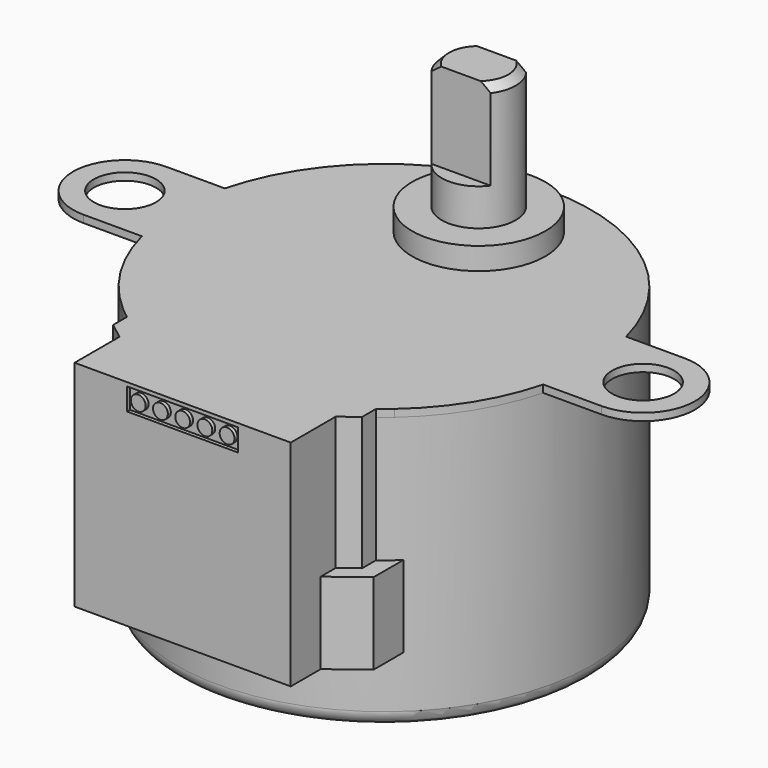
from build123d import *

# Parameters (mm, degrees)
SKETCH002_R     = 14
PAD001_DEPTH    = 18.5
SKETCH003_R     = 0.5
PAD002_DEPTH    = 0.5
SKETCH004_R     = 4.5
SKETCH004_R_2   = 4
PAD003_DEPTH    = 2
POCKET_DEPTH    = 6
FILLET_R        = 1
SKETCH007_R     = 4
SKETCH007_R_2   = 2.5
PAD005_DEPTH    = 2
PAD006_DEPTH    = 14
PAD007_DEPTH    = 0.5
POCKET001_DEPTH = 8.5
SKETCH011_W     = 7.5
SKETCH011_H     = 1.5
SKETCH011_R     = 0.5
POCKET002_DEPTH = 0.25
SKETCH012_R     = 2.5
PAD008_DEPTH    = 10.5
POCKET003_DEPTH = 6
CHAMFER_SIZE    = 0.5
SKETCH001_R     = 4.5
SKETCH001_R_2   = 0.5
SKETCH001_R_3   = 2.1
PAD_DEPTH       = 0.5


with BuildPart() as body001:
    # Sketch002 → Pad001 (new body)
    with BuildSketch(Plane.XY):
        with Locations((0, -8)):
            Circle(SKETCH002_R)
    extrude(amount=-PAD001_DEPTH)

    # Sketch003 → Pad002 (join)
    with BuildSketch(Plane.XY):
        with Locations((0, -12)):
            Circle(SKETCH003_R)
        with Locations((7, -8)):
            Circle(SKETCH003_R)
        with Locations((6, -4)):
            Circle(SKETCH003_R)
        with BuildLine():
            ThreePointArc((-10.8742815855, 0), (-12.1662090508, -2.1490720964), (-13.0384048104, -4.5))
            Line((-13.0384048104, -4.5), (-13.5554417117, -4.5))
            ThreePointArc((-2.5, 5.774977314), (-9.5309019426, 2.254848032), (-13.5554417117, -4.5))
            Line((-2.5, 5.2664991614), (-2.5, 5.774977314))
            ThreePointArc((-2.5, 5.2664991614), (-6.2865544647, 3.9469340402), (-9.5184693635, 1.5733348932))
            Line((-9.1659334611, 1.2187669342), (-9.5184693635, 1.5733348932))
            ThreePointArc((-9.1659334611, 1.2187669342), (-9.8479109981, 0.4863802044), (-10.4715304156, -0.2962962963))
            Line((-10.8742815855, 0), (-10.4715304156, -0.2962962963))
        make_face()
        with BuildLine():
            Line((-13.9642400438, -7), (-13.4629120178, -7))
            ThreePointArc((-13.4629120178, -7), (-13.5, -8), (-13.4629120178, -9))
            Line((-13.9642400438, -9), (-13.4629120178, -9))
            ThreePointArc((-13.9642400438, -7), (-14, -8), (-13.9642400438, -9))
        make_face()
        with BuildLine():
            Line((-9.1659334611, -18.5823279002), (-9.1659334611, -17.9113906081))
            ThreePointArc((-9.5184693635, -17.5733348932), (-9.3437303923, -17.7439572226), (-9.1659334611, -17.9113906081))
            Line((-9.5184693635, -17.5733348932), (-9.1659334611, -17.2187669342))
            ThreePointArc((-10.4715304156, -15.7037037037), (-9.8479109981, -16.4863802044), (-9.1659334611, -17.2187669342))
            Line((-10.4715304156, -15.7037037037), (-10.8742815855, -16))
            ThreePointArc((-13.0384048104, -11.5), (-12.1662090508, -13.8509279036), (-10.8742815855, -16))
            Line((-13.0384048104, -11.5), (-13.5554417117, -11.5))
            ThreePointArc((-13.5554417117, -11.5), (-11.8997926267, -15.3752922276), (-9.1659334611, -18.5823279002))
        make_face()
        with BuildLine():
            Line((2.5, 5.774977314), (2.5, 5.2664991614))
            ThreePointArc((9.5184693635, 1.5733348932), (6.2865544647, 3.9469340402), (2.5, 5.2664991614))
            Line((9.1659334611, 1.2187669342), (9.5184693635, 1.5733348932))
            ThreePointArc((10.4715304156, -0.2962962963), (9.8479109981, 0.4863802044), (9.1659334611, 1.2187669342))
            Line((10.4715304156, -0.2962962963), (10.8742815855, 0))
            ThreePointArc((13.0384048104, -4.5), (12.1662090508, -2.1490720964), (10.8742815855, 0))
            Line((13.0384048104, -4.5), (13.5554417117, -4.5))
            ThreePointArc((13.5554417117, -4.5), (9.5309019426, 2.254848032), (2.5, 5.774977314))
        make_face()
        with BuildLine():
            Line((13.0384048104, -11.5), (13.5554417117, -11.5))
            ThreePointArc((9.1659334611, -18.5823279002), (11.8997926267, -15.3752922276), (13.5554417117, -11.5))
            Line((9.1659334611, -17.9113906081), (9.1659334611, -18.5823279002))
            ThreePointArc((9.1659334611, -17.9113906081), (9.3437303923, -17.7439572226), (9.5184693635, -17.5733348932))
            Line((9.1659334611, -17.2187669342), (9.5184693635, -17.5733348932))
            ThreePointArc((9.1659334611, -17.2187669342), (9.8479109981, -16.4863802044), (10.4715304156, -15.7037037037))
            Line((10.4715304156, -15.7037037037), (10.8742815855, -16))
            ThreePointArc((10.8742815855, -16), (12.1662090508, -13.8509279036), (13.0384048104, -11.5))
        make_face()
        with BuildLine():
            ThreePointArc((13.4629120178, -9), (13.5, -8), (13.4629120178, -7))
            Line((13.4629120178, -7), (13.9642400438, -7))
            ThreePointArc((13.9642400438, -9), (14, -8), (13.9642400438, -7))
            Line((13.4629120178, -9), (13.9642400438, -9))
        make_face()
    extrude(amount=PAD002_DEPTH)

    # Sketch004 → Pad003 (join)
    with BuildSketch(Plane.XY):
        Circle(SKETCH004_R)
        Circle(SKETCH004_R_2, mode=Mode.SUBTRACT)
    extrude(amount=PAD003_DEPTH)

    # Sketch006 → Pocket (cut)
    with BuildSketch(Plane.XY.offset(10.5)):
        with BuildLine():
            Line((-2.0000003272, 1.4999995637), (2.0000003272, 1.4999995637))
            ThreePointArc((2.0000003272, 1.4999995637), (0, 2.5), (-2.0000003272, 1.4999995637))
        make_face()
        with BuildLine():
            Line((-1.9999996728, -1.5000004363), (1.9999996728, -1.5000004363))
            ThreePointArc((-1.9999996728, -1.5000004363), (0, -2.5), (1.9999996728, -1.5000004363))
        make_face()
    extrude(amount=-POCKET_DEPTH, mode=Mode.SUBTRACT)

    # Fillet
    fillet_edges = [body001.edges().sort_by_distance(p)[0] for p in [
        (-14, -8, -18.5),
    ]]
    fillet(fillet_edges, radius=FILLET_R)


with BuildPart() as body002:
    # Sketch007 → Pad005 (new body)
    with BuildSketch(Plane.XY):
        Circle(SKETCH007_R)
        Circle(SKETCH007_R_2, mode=Mode.SUBTRACT)
    extrude(amount=PAD005_DEPTH)


with BuildPart() as body003:
    # Sketch008 → Pad006 (new body)
    with BuildSketch(Plane.XY):
        with BuildLine():
            Line((-9.5184693635, -18.2663888966), (-9.5184693635, -20.7663888966))
            Line((-9.5184693635, -20.7663888966), (-7.3, -22.4730645401))
            Line((-7.3, -22.4730645401), (-7.3, -25))
            Line((-7.3, -25), (7.3, -25))
            Line((7.3, -25), (7.3, -22.4730645401))
            Line((7.3, -22.4730645401), (9.5184693635, -20.7663888966))
            Line((9.5184693635, -20.7663888966), (9.5184693635, -18.2663888966))
            ThreePointArc((-9.5184693635, -18.2663888966), (0, -22), (9.5184693635, -18.2663888966))
        make_face()
    extrude(amount=-PAD006_DEPTH)

    # Sketch009 → Pad007 (join)
    with BuildSketch(Plane.XY):
        with BuildLine():
            Line((-9.5184693635, -18.2663888966), (-9.5184693635, -20.7663888966))
            Line((-9.5184693635, -20.7663888966), (-7.3, -22.4730645401))
            Line((-7.3, -22.4730645401), (-7.3, -25))
            Line((-7.3, -25), (7.3, -25))
            Line((7.3, -25), (7.3, -22.4730645401))
            Line((7.3, -22.4730645401), (9.5184693635, -20.7663888966))
            Line((9.5184693635, -20.7663888966), (9.5184693635, -18.2663888966))
            ThreePointArc((5.8, -20.742056349), (7.7586150983, -19.6534926849), (9.5184693635, -18.2663888966))
            Line((5.8, -20.742056349), (5.8, -23.5))
            Line((5.8, -23.5), (-5.8, -23.5))
            Line((-5.8, -23.5), (-5.8, -20.742056349))
            ThreePointArc((-9.5184693635, -18.2663888966), (-7.7586150983, -19.6534926849), (-5.8, -20.742056349))
        make_face()
    extrude(amount=PAD007_DEPTH)

    # Sketch010 → Pocket001 (cut, symmetric)
    with BuildSketch(Plane.XY):
        with BuildLine():
            Line((-9.5184693635, -18.2663888966), (-9.5184693635, -20.7663888966))
            Line((-9.5184693635, -20.7663888966), (-7.3, -22.4730645401))
            Line((-7.3, -21.2095968101), (-7.3, -22.4730645401))
            Line((-8.4092346817, -20.3562589884), (-7.3, -21.2095968101))
            Line((-8.4092346817, -19.1930680364), (-8.4092346817, -20.3562589884))
            ThreePointArc((-9.5184693635, -18.2663888966), (-8.9758189955, -18.7440529299), (-8.4092346817, -19.1930680364))
        make_face()
        with BuildLine():
            Line((9.5184693635, -18.2663888966), (9.5184693635, -20.7663888966))
            Line((9.5184693635, -20.7663888966), (7.3, -22.4730645401))
            Line((7.3, -22.4730645401), (7.3, -21.2095968101))
            Line((7.3, -21.2095968101), (8.4092346817, -20.3562589884))
            Line((8.4092346817, -20.3562589884), (8.4092346817, -19.1930680364))
            ThreePointArc((8.4092346817, -19.1930680364), (8.9758189955, -18.7440529299), (9.5184693635, -18.2663888966))
        make_face()
    extrude(amount=POCKET001_DEPTH, both=True, mode=Mode.SUBTRACT)

    # Sketch011 (on Face10 of Pocket001) → Pocket002 (cut)
    with BuildSketch(Plane.XZ.offset(25)):
        with Locations((0, -0.5)):
            Rectangle(SKETCH011_W, SKETCH011_H)
        with Locations((0, -0.5)):
            Circle(SKETCH011_R, mode=Mode.SUBTRACT)
        with Locations((-1.5, -0.5)):
            Circle(SKETCH011_R, mode=Mode.SUBTRACT)
        with Locations((-3, -0.5)):
            Circle(SKETCH011_R, mode=Mode.SUBTRACT)
        with Locations((1.5, -0.5)):
            Circle(SKETCH011_R, mode=Mode.SUBTRACT)
        with Locations((3, -0.5)):
            Circle(SKETCH011_R, mode=Mode.SUBTRACT)
    extrude(amount=-POCKET002_DEPTH, mode=Mode.SUBTRACT)


with BuildPart() as body004:
    # Sketch012 → Pad008 (new body)
    with BuildSketch(Plane.XY):
        Circle(SKETCH012_R)
    extrude(amount=PAD008_DEPTH)

    # Sketch013 (on Face3 of Pad008) → Pocket003 (cut)
    with BuildSketch(Plane.XY.offset(10.5)):
        with BuildLine():
            Line((-2, 1.5), (2, 1.5))
            ThreePointArc((2, 1.5), (0, 2.5), (-2, 1.5))
        make_face()
        with BuildLine():
            Line((-2, -1.5), (2, -1.5))
            ThreePointArc((-2, -1.5), (0, -2.5), (2, -1.5))
        make_face()
    extrude(amount=-POCKET003_DEPTH, mode=Mode.SUBTRACT)

    # Chamfer
    chamfer_edges = [body004.edges().sort_by_distance(p)[0] for p in [
        (-2.5, 0, 10.5),
        (2.371708, -0.790569, 10.5),
        (2.371708, 0.790569, 10.5),
    ]]
    chamfer(chamfer_edges, length=CHAMFER_SIZE)


with BuildPart() as fusion:
    # Sketch001 → Pad (new body)
    with BuildSketch(Plane.XY):
        with BuildLine():
            Line((-17.5, -4.5), (-13.0384048104, -4.5))
            ThreePointArc((-10.8742815855, 0), (-12.1662090508, -2.1490720964), (-13.0384048104, -4.5))
            Line((-10.8742815855, 0), (-10.4715304156, -0.2962962963))
            ThreePointArc((-9.1659334611, 1.2187669342), (-9.8479109981, 0.4863802044), (-10.4715304156, -0.2962962963))
            Line((-9.5184693635, 1.5733348932), (-9.1659334611, 1.2187669342))
            ThreePointArc((-2.5, 5.2664991614), (-6.2865544647, 3.9469340402), (-9.5184693635, 1.5733348932))
            Line((-2.5, 5.2664991614), (-2.5, 5.774977314))
            ThreePointArc((2.5, 5.774977314), (0, 6), (-2.5, 5.774977314))
            Line((2.5, 5.774977314), (2.5, 5.2664991614))
            ThreePointArc((9.5184693635, 1.5733348932), (6.2865544647, 3.9469340402), (2.5, 5.2664991614))
            Line((9.1659334611, 1.2187669342), (9.5184693635, 1.5733348932))
            ThreePointArc((10.4715304156, -0.2962962963), (9.8479109981, 0.4863802044), (9.1659334611, 1.2187669342))
            Line((10.4715304156, -0.2962962963), (10.8742815855, 0))
            ThreePointArc((13.0384048104, -4.5), (12.1662090508, -2.1490720964), (10.8742815855, 0))
            Line((13.0384048104, -4.5), (17.5, -4.5))
            ThreePointArc((17.499999975, -11.5), (21, -8.0000000125), (17.5, -4.5))
            Line((17.499999975, -11.5), (13.0384048104, -11.5))
            ThreePointArc((10.8742815855, -16), (12.1662090508, -13.8509279036), (13.0384048104, -11.5))
            Line((10.4715304156, -15.7037037037), (10.8742815855, -16))
            ThreePointArc((9.1659334611, -17.2187669342), (9.8479109981, -16.4863802044), (10.4715304156, -15.7037037037))
            Line((9.1659334611, -17.2187669342), (9.5184693635, -17.5733348932))
            ThreePointArc((9.1659334611, -17.9113906081), (9.3437303923, -17.7439572226), (9.5184693635, -17.5733348932))
            Line((9.1659334611, -17.9113906081), (9.1659334611, -18.5823279002))
            ThreePointArc((5.8, -20.742056349), (7.5604826456, -19.7830005587), (9.1659334611, -18.5823279002))
            Line((5.8, -23.5), (5.8, -20.742056349))
            Line((-5.8, -23.5), (5.8, -23.5))
            Line((-5.8, -20.742056349), (-5.8, -23.5))
            ThreePointArc((-9.1659334611, -18.5823279002), (-7.5604826456, -19.7830005587), (-5.8, -20.742056349))
            Line((-9.1659334611, -18.5823279002), (-9.1659334611, -17.9113906081))
            ThreePointArc((-9.5184693635, -17.5733348932), (-9.3437303923, -17.7439572226), (-9.1659334611, -17.9113906081))
            Line((-9.1659334611, -17.2187669342), (-9.5184693635, -17.5733348932))
            ThreePointArc((-10.4715304156, -15.7037037037), (-9.8479109981, -16.4863802044), (-9.1659334611, -17.2187669342))
            Line((-10.8742815855, -16), (-10.4715304156, -15.7037037037))
            ThreePointArc((-13.0384048104, -11.5), (-12.1662090508, -13.8509279036), (-10.8742815855, -16))
            Line((-17.499999975, -11.5), (-13.0384048104, -11.5))
            ThreePointArc((-17.5, -4.5), (-21, -8.0000000125), (-17.499999975, -11.5))
        make_face()
        Circle(SKETCH001_R, mode=Mode.SUBTRACT)
        with Locations((6, -4)):
            Circle(SKETCH001_R_2, mode=Mode.SUBTRACT)
        with Locations((7, -8)):
            Circle(SKETCH001_R_2, mode=Mode.SUBTRACT)
        with Locations((0, -12)):
            Circle(SKETCH001_R_2, mode=Mode.SUBTRACT)
        with Locations((17.5, -8)):
            Circle(SKETCH001_R_3, mode=Mode.SUBTRACT)
        with Locations((-17.5, -8)):
            Circle(SKETCH001_R_3, mode=Mode.SUBTRACT)
        with BuildLine():
            Line((-13.9642400438, -7), (-13.4629120178, -7))
            ThreePointArc((-13.4629120178, -7), (-13.5, -8), (-13.4629120178, -9))
            Line((-13.9642400438, -9), (-13.4629120178, -9))
            ThreePointArc((-13.9642400438, -7), (-14, -8), (-13.9642400438, -9))
        make_face(mode=Mode.SUBTRACT)
        with BuildLine():
            Line((13.4629120178, -7), (13.9642400438, -7))
            ThreePointArc((13.9642400438, -9), (14, -8), (13.9642400438, -7))
            Line((13.4629120178, -9), (13.9642400438, -9))
            ThreePointArc((13.4629120178, -9), (13.5, -8), (13.4629120178, -7))
        make_face(mode=Mode.SUBTRACT)
    extrude(amount=PAD_DEPTH)

    # Fusion: union Body001, Body002, Body003, Body004
    add(body001.part)
    add(body002.part)
    add(body003.part)
    add(body004.part)


solid = fusion.part
